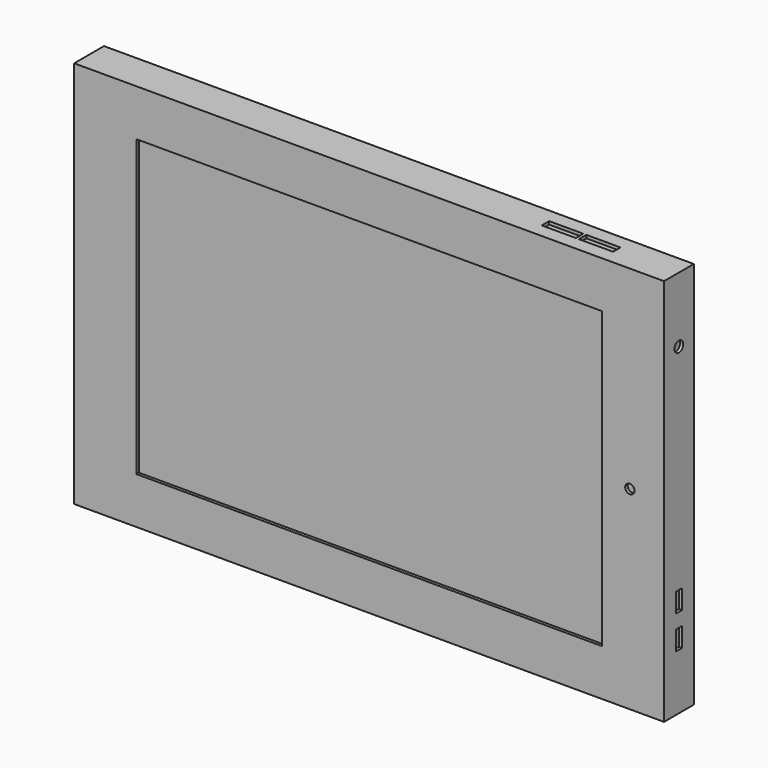
from build123d import *

# Parameters (mm, degrees)
F0_W      = 15.5
F0_H      = 130
F1_DEPTH  = 100
F2_W      = 12
F2_H      = 125
F3_DEPTH  = 95
F4_W      = 20
F4_H      = 5
F4_W_2    = 5.5
F4_H_2    = 5.5
F5_DEPTH  = 1
F6_W      = 2.5
F6_H      = 6.25
F6_R      = 1.75
F7_DEPTH  = 1
F8_W      = 11
F8_H      = 3
F9_DEPTH  = 1
F10_W     = 150
F10_H     = 95
F10_R     = 1.5
F11_DEPTH = 1


with BuildPart() as f1:
    # F0 (on Right) → F1 (new body, symmetric)
    with BuildSketch(Plane.YZ):
        Rectangle(F0_W, F0_H)
    extrude(amount=F1_DEPTH, both=True)


with BuildPart() as f3:
    # F2 (on Right) → F3 (new body, symmetric)
    with BuildSketch(Plane.YZ):
        Rectangle(F2_W, F2_H)
    extrude(amount=F3_DEPTH, both=True)


with BuildPart() as f5_tool:
    # F4 (on face) → F5 (new body)
    with BuildSketch(Plane(origin=(0, 6, 0), x_dir=(-1, 0, 0), z_dir=(0, 1, 0))):
        with Locations((-65, -58)):
            Rectangle(F4_W, F4_H)
        with Locations((65, -58)):
            Rectangle(F4_W, F4_H)
        with Locations((-84.25, 51.75)):
            Rectangle(F4_W_2, F4_H_2)
    extrude(amount=-F5_DEPTH)


with BuildPart() as f1_1:
    add(f1.part)

    # F5: cut by f5_tool
    add(f5_tool.part, mode=Mode.SUBTRACT)


with BuildPart() as f3_1:
    add(f3.part)

    # F5: cut by f5_tool
    add(f5_tool.part, mode=Mode.SUBTRACT)


with BuildPart() as f7_tool:
    # F6 (on face) → F7 (new body)
    with BuildSketch(Plane.YZ.offset(95)):
        with Locations((0, -30.625)):
            Rectangle(F6_W, F6_H)
        with Locations((0, -41.375)):
            Rectangle(F6_W, F6_H)
        with Locations((0, 41.5)):
            Circle(F6_R)
    extrude(amount=-F7_DEPTH)


with BuildPart() as f1_2:
    add(f1_1.part)

    # F7: cut by f7_tool
    add(f7_tool.part, mode=Mode.SUBTRACT)


with BuildPart() as f3_2:
    add(f3_1.part)

    # F7: cut by f7_tool
    add(f7_tool.part, mode=Mode.SUBTRACT)


with BuildPart() as f9_tool:
    # F8 (on face) → F9 (new body)
    with BuildSketch(Plane.XY.offset(62.5)):
        with Locations((57.5, 0)):
            Rectangle(F8_W, F8_H)
        with Locations((69.5, 0)):
            Rectangle(F8_W, F8_H)
    extrude(amount=-F9_DEPTH)


with BuildPart() as f1_3:
    add(f1_2.part)

    # F9: cut by f9_tool
    add(f9_tool.part, mode=Mode.SUBTRACT)


with BuildPart() as f3_3:
    add(f3_2.part)

    # F9: cut by f9_tool
    add(f9_tool.part, mode=Mode.SUBTRACT)


with BuildPart() as f11_tool:
    # F10 (on face) → F11 (new body)
    with BuildSketch(Plane.XZ.offset(6)):
        Rectangle(F10_W, F10_H)
        with Locations((84, 0)):
            Circle(F10_R)
    extrude(amount=-F11_DEPTH)


with BuildPart() as f1_4:
    add(f1_3.part)

    # F11: cut by f11_tool
    add(f11_tool.part, mode=Mode.SUBTRACT)


with BuildPart() as f3_4:
    add(f3_3.part)

    # F11: cut by f11_tool
    add(f11_tool.part, mode=Mode.SUBTRACT)


solid = f3_4.part
